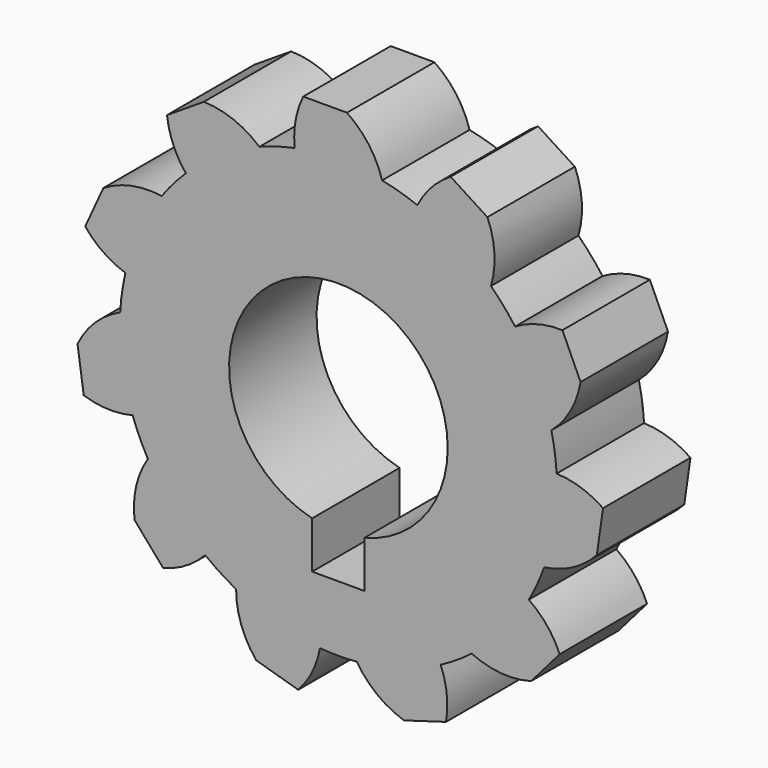
from build123d import *

# Parameters (mm, degrees)
F1_DEPTH = 6.35


with BuildPart() as f1:
    # F0 (on Front) → F1 (new body)
    with BuildSketch(Plane.XZ):
        with BuildLine():
            Line((0.498749, 15.24), (-2.041251, 15.24))
            ThreePointArc((-2.041251, 15.24), (-2.490083, 13.877276), (-2.54, 12.443408))
            ThreePointArc((-2.54, 12.443408), (-3.578003, 12.185561), (-4.59063, 11.841289))
            ThreePointArc((-4.59063, 11.841289), (-6.095514, 12.749414), (-7.819791, 13.090348))
            Line((-7.819791, 13.090348), (-9.956575, 11.71712))
            ThreePointArc((-9.956575, 11.71712), (-9.597413, 10.328067), (-8.864198, 9.094833))
            ThreePointArc((-8.864198, 9.094833), (-9.59802, 8.316731), (-10.263768, 7.479644))
            ThreePointArc((-10.263768, 7.479644), (-12.020726, 7.430005), (-13.655604, 6.784603))
            Line((-13.655604, 6.784603), (-14.710758, 4.474138))
            ThreePointArc((-14.710758, 4.474138), (-13.657632, 3.499769), (-12.374076, 2.858713))
            ThreePointArc((-12.374076, 2.858713), (-12.570732, 1.807398), (-12.678232, 0.743265))
            ThreePointArc((-12.678232, 0.743265), (-14.129443, -0.248377), (-15.155858, -1.675205))
            Line((-15.155858, -1.675205), (-14.794379, -4.189352))
            ThreePointArc((-14.794379, -4.189352), (-13.381649, -4.43968), (-11.955272, -4.285028))
            ThreePointArc((-11.955272, -4.285028), (-11.552326, -5.275771), (-11.067446, -6.229095))
            ThreePointArc((-11.067446, -6.229095), (-11.752161, -7.847902), (-11.844235, -9.603148))
            Line((-11.844235, -9.603148), (-10.180889, -11.522752))
            ThreePointArc((-10.180889, -11.522752), (-8.857087, -10.969562), (-7.740754, -10.068303))
            ThreePointArc((-7.740754, -10.068303), (-6.866138, -10.68392), (-5.942825, -11.223762))
            ThreePointArc((-5.942825, -11.223762), (-5.643651, -12.955773), (-4.772151, -14.482159))
            Line((-4.772151, -14.482159), (-2.335039, -15.19776))
            ThreePointArc((-2.335039, -15.19776), (-1.520463, -14.016686), (-1.068601, -12.654963))
            ThreePointArc((-1.068601, -12.654963), (0, -12.7), (1.068601, -12.654963))
            ThreePointArc((1.068601, -12.654963), (2.256678, -13.950278), (3.815058, -14.763187))
            Line((3.815058, -14.763187), (6.25217, -14.047586))
            ThreePointArc((6.25217, -14.047586), (6.298898, -12.613611), (5.942825, -11.223762))
            ThreePointArc((5.942825, -11.223762), (6.866138, -10.68392), (7.740754, -10.068303))
            ThreePointArc((7.740754, -10.068303), (9.440528, -10.515668), (11.191012, -10.357007))
            Line((11.191012, -10.357007), (12.854358, -8.437403))
            ThreePointArc((12.854358, -8.437403), (12.118403, -7.205804), (11.067446, -6.229095))
            ThreePointArc((11.067446, -6.229095), (11.552326, -5.275771), (11.955272, -4.285028))
            ThreePointArc((11.955272, -4.285028), (13.627077, -3.742408), (15.013899, -2.662551))
            Line((15.013899, -2.662551), (15.375379, -0.148405))
            ThreePointArc((15.375379, -0.148405), (14.090401, 0.489796), (12.678232, 0.743265))
            ThreePointArc((12.678232, 0.743265), (12.570732, 1.807398), (12.374076, 2.858713))
            ThreePointArc((12.374076, 2.858713), (13.487125, 4.21904), (14.06998, 5.877246))
            Line((14.06998, 5.877246), (13.014826, 8.187712))
            ThreePointArc((13.014826, 8.187712), (11.588796, 8.029888), (10.263768, 7.479644))
            ThreePointArc((10.263768, 7.479644), (9.59802, 8.316731), (8.864198, 9.094833))
            ThreePointArc((8.864198, 9.094833), (9.065106, 10.840973), (8.658941, 12.55106))
            Line((8.658941, 12.55106), (6.522157, 13.924287))
            ThreePointArc((6.522157, 13.924287), (5.40783, 13.020548), (4.59063, 11.841289))
            ThreePointArc((4.59063, 11.841289), (3.578003, 12.185561), (2.54, 12.443408))
            ThreePointArc((2.54, 12.443408), (1.76498, 14.020973), (0.498749, 15.24))
        make_face()
        with BuildLine():
            ThreePointArc((-1.524, -6.164408), (-3.914403, 4.999995), (6.35, 0))
            ThreePointArc((6.35, 0), (4.999995, -3.914403), (1.524, -6.164408))
            Line((1.524, -6.164408), (1.524, -8.89))
            Line((1.524, -8.89), (0, -8.89))
            Line((0, -8.89), (-1.524, -8.89))
            Line((-1.524, -8.89), (-1.524, -6.164408))
        make_face(mode=Mode.SUBTRACT)
    extrude(amount=F1_DEPTH)


solid = f1.part
